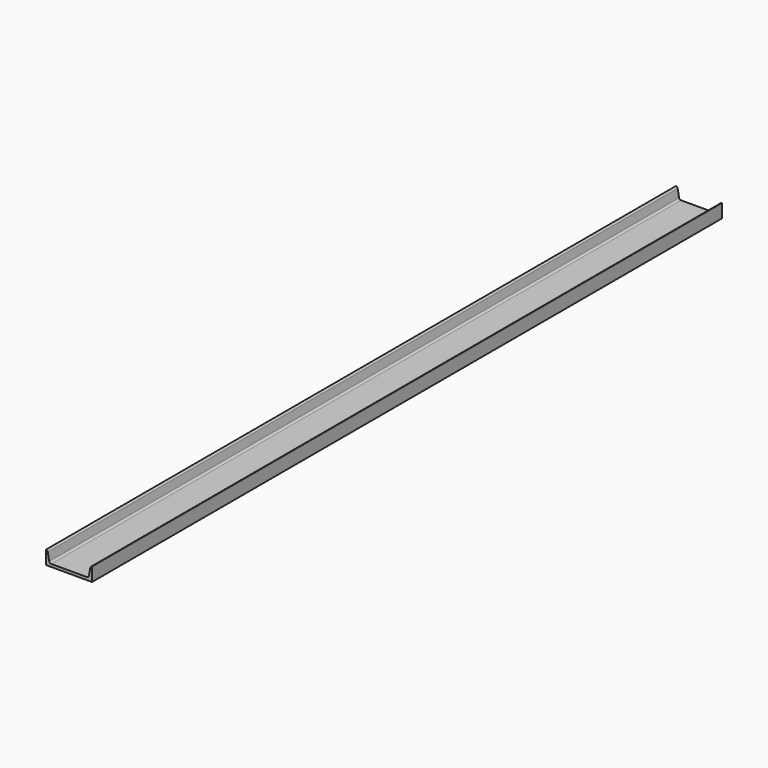
from build123d import *

# Parameters (mm, degrees)
F1_DEPTH = 3048


with BuildPart() as f1:
    # F0 (on Front) → F1 (new body)
    with BuildSketch(Plane.XZ):
        with BuildLine():
            Line((0, 52.991395), (0, 0))
            Line((0, 0), (177.8, 0))
            Line((177.8, 0), (177.8, 52.991395))
            ThreePointArc((177.8, 52.991395), (173.526978, 50.856502), (171.274301, 46.644385))
            Line((171.274301, 46.644385), (165.783699, 16.965456))
            ThreePointArc((165.783699, 16.965456), (163.077015, 12.344805), (158.04108, 10.523841))
            Line((158.04108, 10.523841), (19.75892, 10.523841))
            ThreePointArc((19.75892, 10.523841), (14.722985, 12.344805), (12.016301, 16.965456))
            Line((12.016301, 16.965456), (6.525699, 46.644385))
            ThreePointArc((6.525699, 46.644385), (4.273022, 50.856502), (0, 52.991395))
        make_face()
    extrude(amount=F1_DEPTH)


solid = f1.part
